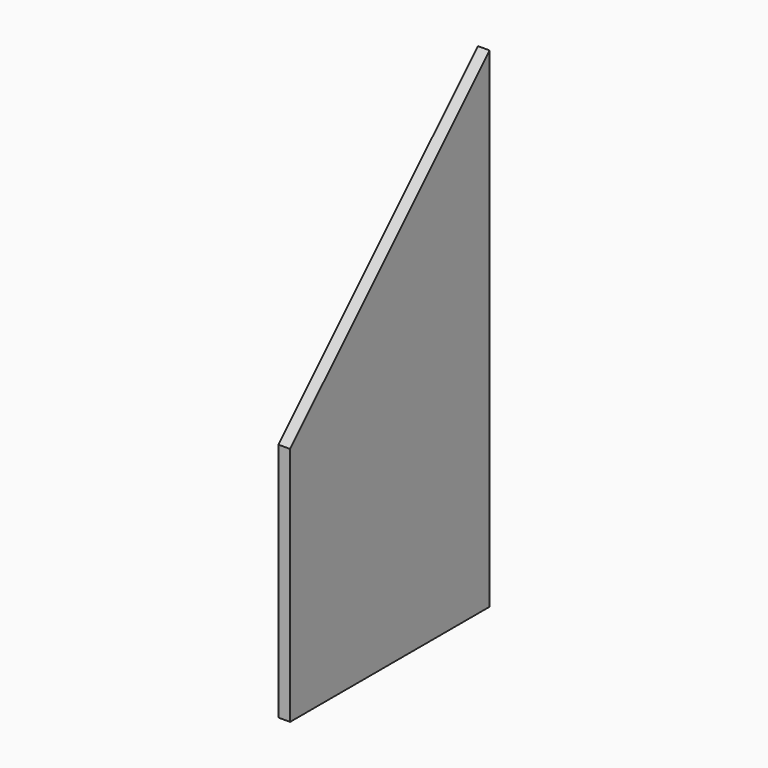
from build123d import *

# Parameters (mm, degrees)
PAD_DEPTH = 18


with BuildPart() as part:
    # Sketch → Pad (new body)
    with BuildSketch(Plane.YZ):
        Polygon((0, 0), (-382, 0), (-382, 368), (0, 750), align=None)
    extrude(amount=PAD_DEPTH)


solid = part.part
